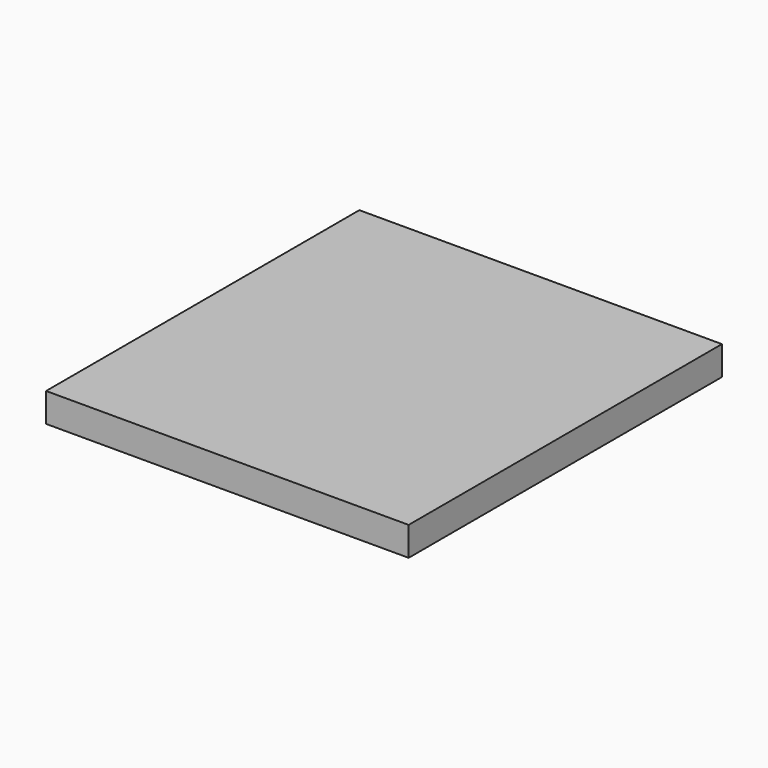
from build123d import *

# Parameters (mm, degrees)
F1_DEPTH = 16
F2_W     = 200
F2_H     = 16
F3_DEPTH = 16


with BuildPart() as f1:
    # F0 (on Top) → F1 (new body)
    with BuildSketch(Plane.XY):
        Polygon((-111.073881, -56.317486), (-71.169235, -56.317486), (88.926119, -56.317486), (88.926119, 143.682514), (-111.073881, 143.682514), align=None)
    extrude(amount=F1_DEPTH)

    # F2 (on face) → F3 (join)
    with BuildSketch(Plane(origin=(0, 143.682514, 0), x_dir=(-1, 0, 0), z_dir=(0, 1, 0))):
        with Locations((11.073881, 8)):
            Rectangle(F2_W, F2_H)
    extrude(amount=F3_DEPTH)


solid = f1.part
